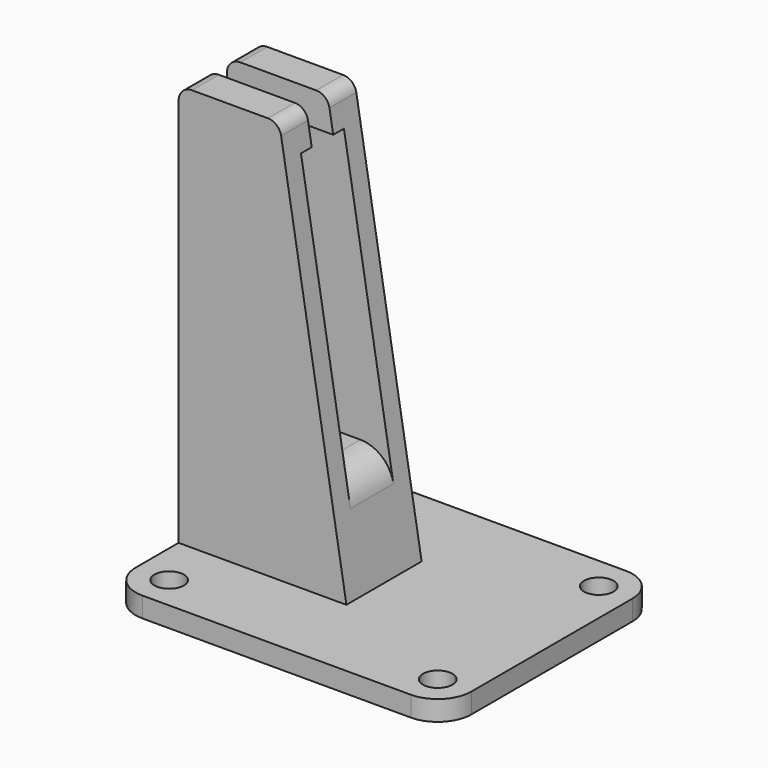
from build123d import *

# Parameters (mm, degrees)
SKETCH_W        = 50
SKETCH_H        = 40
SKETCH_R        = 2.2
PAD_DEPTH       = 3
SKETCH001_W     = 50
SKETCH001_H     = 14
PAD001_DEPTH    = 60
POCKET_DEPTH    = 50
POCKET001_DEPTH = 14
FILLET_R        = 5
FILLET001_R     = 2
FILLET002_R     = 5


with BuildPart() as part:
    # Sketch → Pad (new body)
    with BuildSketch(Plane.XY):
        Rectangle(SKETCH_W, SKETCH_H)
        with Locations((-20, -15)):
            Circle(SKETCH_R, mode=Mode.SUBTRACT)
        with Locations((20, 15)):
            Circle(SKETCH_R, mode=Mode.SUBTRACT)
        with Locations((20, -15)):
            Circle(SKETCH_R, mode=Mode.SUBTRACT)
        with Locations((-20, 15)):
            Circle(SKETCH_R, mode=Mode.SUBTRACT)
    extrude(amount=PAD_DEPTH)

    # Sketch001 (on Face10 of Pad) → Pad001 (join)
    with BuildSketch(Plane.XY.offset(3)):
        Rectangle(SKETCH001_W, SKETCH001_H)
    extrude(amount=PAD001_DEPTH)

    # Sketch002 (on Face9 of Pad001) → Pocket (cut)
    with BuildSketch(Plane.YZ.offset(25)):
        Polygon((-2, 63), (-2, 58), (-4, 58), (-4, 18), (4, 18), (4, 58), (2, 58), (2, 63), align=None)
    extrude(amount=-POCKET_DEPTH, mode=Mode.SUBTRACT)

    # Sketch003 (on Face15 of Pocket) → Pocket001 (cut)
    with BuildSketch(Plane.XZ.offset(7)):
        Polygon((-10, 63), (0, 3), (25, 3), (25, 63), align=None)
    extrude(amount=-POCKET001_DEPTH, mode=Mode.SUBTRACT)

    # Fillet
    fillet_edges = [part.edges().sort_by_distance(p)[0] for p in [
        (-25, -20, 1.5),
        (25, -20, 1.5),
        (25, 20, 1.5),
        (-25, 20, 1.5),
    ]]
    fillet(fillet_edges, radius=FILLET_R)

    # Fillet001
    fillet001_edges = [part.edges().sort_by_distance(p)[0] for p in [
        (-10, -4.5, 63),
        (-25, -4.5, 63),
        (-10, 4.5, 63),
        (-25, 4.5, 63),
    ]]
    fillet(fillet001_edges, radius=FILLET001_R)

    # Fillet002
    fillet002_edges = [part.edges().sort_by_distance(p)[0] for p in [
        (-2.5, 0, 18),
        (-25, 0, 18),
    ]]
    fillet(fillet002_edges, radius=FILLET002_R)


solid = part.part
